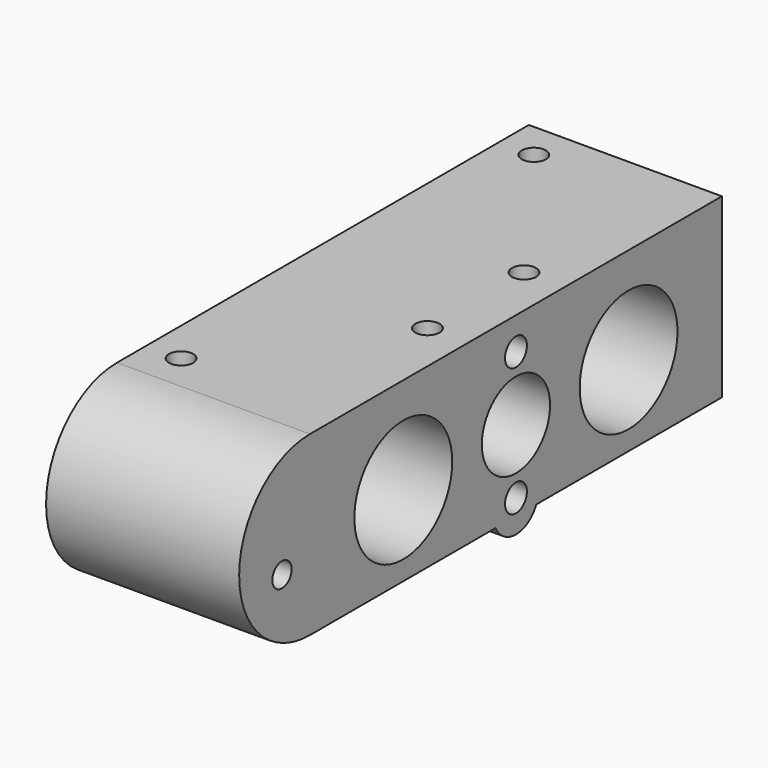
from build123d import *

# Parameters (mm, degrees)
SKETCH035_R          = 7.6
SKETCH035_R_2        = 1.5
PAD011_DEPTH         = 24
SKETCH034_R          = 5.3
SKETCH034_R_2        = 1.7
POCKET021_DEPTH      = 24.001
SKETCH036_R          = 1.5
POCKET022_DEPTH      = 22.001
POCKET022_DEPTH_BACK = 2.001
POCKET023_DEPTH      = 3


with BuildPart() as part:
    # Sketch035 → Pad011 (new body)
    with BuildSketch(Plane.YZ):
        with BuildLine():
            Line((-32, 12), (32, 12))
            Line((32, 12), (32, -10))
            Line((3.1622776602, -10), (32, -10))
            ThreePointArc((-3.1622776602, -10), (0, -12), (3.1622776602, -10))
            Line((-32, -10), (-3.1622776602, -10))
            ThreePointArc((-32, 12), (-43, 1), (-32, -10))
        make_face()
        with Locations((17.5, 0)):
            Circle(SKETCH035_R, mode=Mode.SUBTRACT)
        with Locations((-17.5, 0)):
            Circle(SKETCH035_R, mode=Mode.SUBTRACT)
        with Locations((-36.35, -1.62)):
            Circle(SKETCH035_R_2, mode=Mode.SUBTRACT)
    extrude(amount=PAD011_DEPTH)

    # Sketch034 → Pocket021 (cut, through all)
    with BuildSketch(Plane(origin=(0, 0, 0), x_dir=(0, 0.7071067812, 0.7071067812), z_dir=(1, 0, 0))):
        Circle(SKETCH034_R)
        with Locations((5.65, 5.65)):
            Circle(SKETCH034_R_2)
        with Locations((-5.65, -5.65)):
            Circle(SKETCH034_R_2)
    extrude(amount=POCKET021_DEPTH, mode=Mode.SUBTRACT)

    # Sketch036 (on DatumPlane) → Pocket022 (cut, two sides)
    with BuildSketch(Plane.YX.offset(10)) as pocket022_sk:
        with Locations((-7.5, 19)):
            Circle(SKETCH036_R)
        with Locations((7.5, 19)):
            Circle(SKETCH036_R)
        with Locations((27.4, 4.3)):
            Circle(SKETCH036_R)
        with Locations((-27.4, 4.3)):
            Circle(SKETCH036_R)
    extrude(amount=-POCKET022_DEPTH, mode=Mode.SUBTRACT)
    extrude(pocket022_sk.sketch, amount=POCKET022_DEPTH_BACK, mode=Mode.SUBTRACT)

    # Sketch037 (on DatumPlane) → Pocket023 (cut)
    with BuildSketch(Plane.YX.offset(10)):
        Polygon((-24.7, 5.3588457268), (-27.4, 6.9176914536), (-30.1, 5.3588457268), (-30.1, 2.2411542732), (-27.4, 0.6823085464), (-24.7, 2.2411542732), align=None)
        Polygon((24.7, 5.3588457268), (24.7, 2.2411542732), (27.4, 0.6823085464), (30.1, 2.2411542732), (30.1, 5.3588457268), (27.4, 6.9176914536), align=None)
        Polygon((10.2, 20.5588457268), (7.5, 22.1176914536), (4.8, 20.5588457268), (4.8, 17.4411542732), (7.5, 15.8823085464), (10.2, 17.4411542732), align=None)
        Polygon((-7.5, 22.1176914536), (-10.2, 20.5588457268), (-10.2, 17.4411542732), (-7.5, 15.8823085464), (-4.8, 17.4411542732), (-4.8, 20.5588457268), align=None)
    extrude(amount=-POCKET023_DEPTH, mode=Mode.SUBTRACT)


with BuildPart() as part_1:
    # Body006 placement: moved
    add(part.part.moved(Location((0, 0, -50))))


solid = part_1.part
